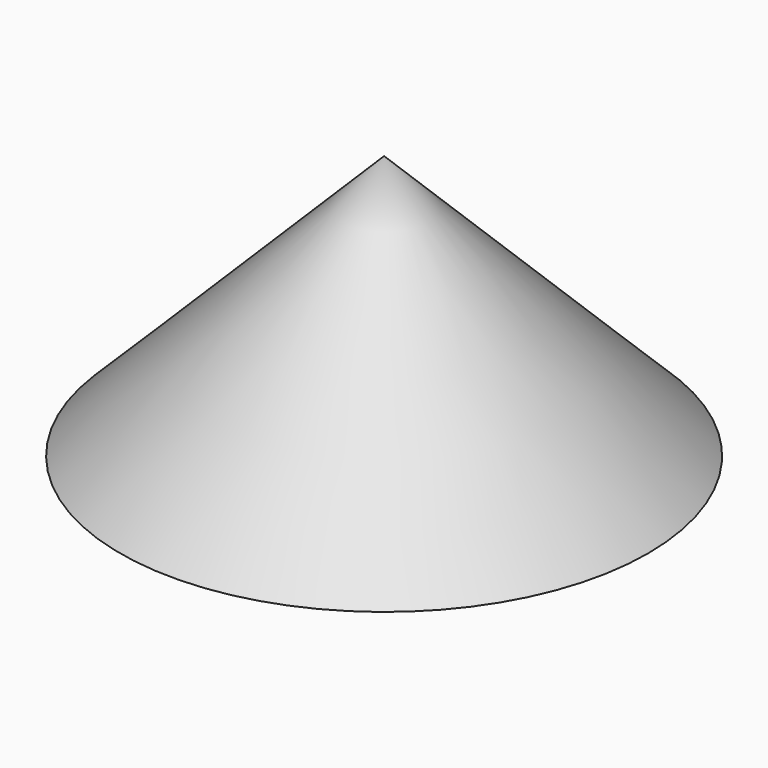
from build123d import *

# Parameters (mm, degrees)
F2_R     = 15.24
F3_DEPTH = 30.48


with BuildPart() as f1:
    # F0 (on Front) → F1 (revolve)
    with BuildSketch(Plane.XZ):
        Polygon((0, 30.48), (0, 0), (30.48, 0), align=None)
    revolve(axis=Axis((0, 0, 15.24), (0, 0, 1)))


with BuildPart() as f3:
    # F2 (on Top) → F3 (new body)
    with BuildSketch(Plane.XY):
        with Locations((-47.422264, -15.657526)):
            Circle(F2_R)
    extrude(amount=F3_DEPTH)


solid = f1.part
